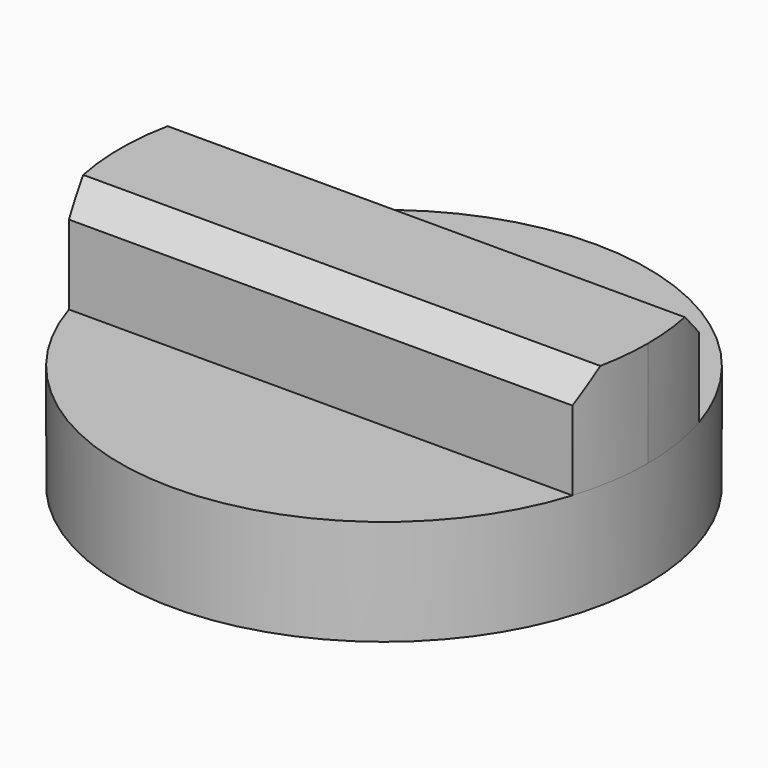
from build123d import *

# Parameters (mm, degrees)
F0_R     = 10
F1_DEPTH = 4
F3_DEPTH = 4
F4_SIZE  = 1


with BuildPart() as f1:
    # F0 (on Top) → F1 (new body)
    with BuildSketch(Plane.XY):
        Circle(F0_R)
    extrude(amount=F1_DEPTH)

    # F2 (on face) → F3 (join)
    with BuildSketch(Plane.XY.offset(4)):
        with BuildLine():
            Line((9.539392, 3), (-9.539392, 3))
            ThreePointArc((-9.539392, 3), (-10, 0), (-9.539392, -3))
            Line((-9.539392, -3), (9.539392, -3))
            ThreePointArc((9.539392, -3), (9.884177, -1.517577), (10, 0))
            ThreePointArc((10, 0), (9.884177, 1.517577), (9.539392, 3))
        make_face()
    extrude(amount=F3_DEPTH)

    # F4
    f4_edges = [f1.edges().sort_by_distance(p)[0] for p in [
        (0, -3, 8),
        (0, 3, 8),
    ]]
    chamfer(f4_edges, length=F4_SIZE)


solid = f1.part
